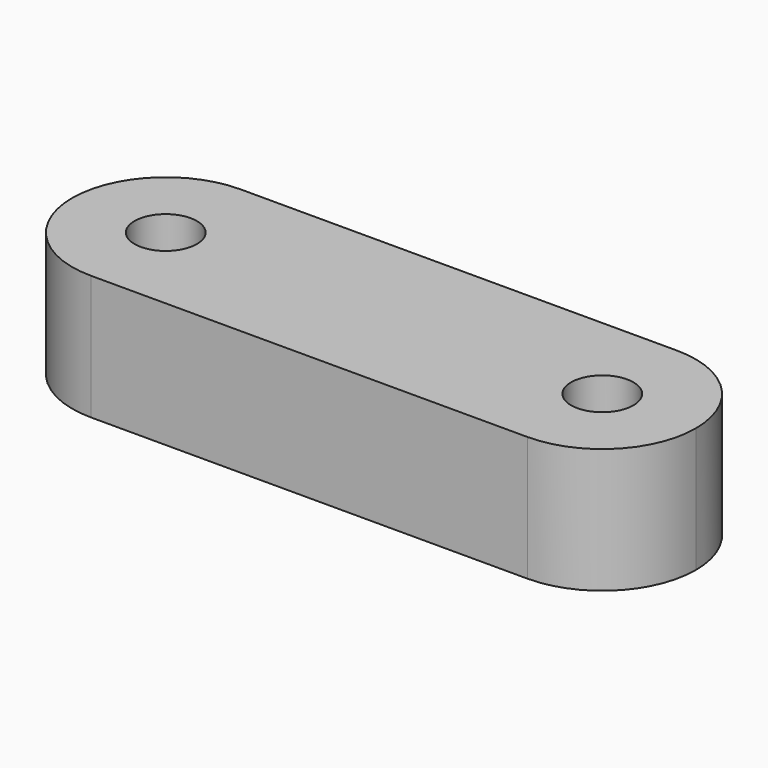
from build123d import *

# Parameters (mm, degrees)
F1_DEPTH = 50.8
F3_D     = 25.4
F4_T     = -2.54


with BuildPart() as f1:
    # F0 (on Top) → F1 (new body)
    with BuildSketch(Plane.XY):
        with BuildLine():
            Line((88.9, 38.1), (-88.9, 38.1))
            ThreePointArc((-88.9, 38.1), (-115.840768, 26.940768), (-127, 0))
            ThreePointArc((-127, 0), (-115.840768, -26.940768), (-88.9, -38.1))
            Line((-88.9, -38.1), (88.9, -38.1))
            ThreePointArc((88.9, -38.1), (115.840768, -26.940768), (127, 0))
            ThreePointArc((127, 0), (115.840768, 26.940768), (88.9, 38.1))
        make_face()
    extrude(amount=F1_DEPTH)

    # F3 (through all)
    with Locations(Plane.XY.offset(50.8)):
        with Locations((-88.9, 0), (88.9, 0)):
            Hole(F3_D / 2)

    # F4
    f4_openings = [f1.faces().sort_by_distance(p)[0] for p in [
        (0, 0, 0),
    ]]
    offset(amount=F4_T, openings=f4_openings)


solid = f1.part
